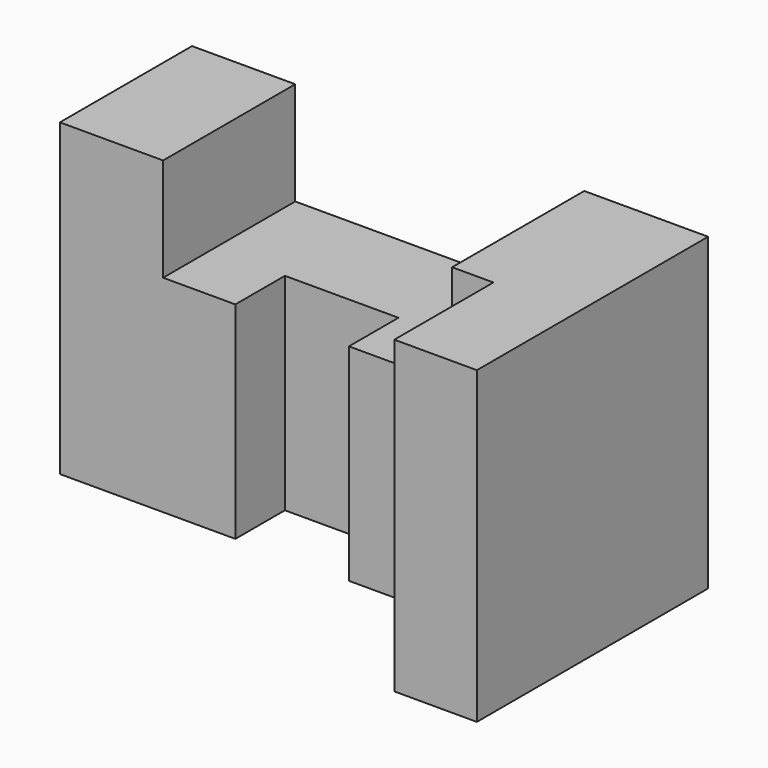
from build123d import *

# Parameters (mm, degrees)
F0_W     = 125
F0_H     = 75
F1_DEPTH = 35
F2_W     = 70
F2_H     = 25
F3_DEPTH = 70.001
F4_W     = 27.5
F4_H     = 15
F5_DEPTH = 75.001


with BuildPart() as f1:
    # F0 (on Front) → F1 (new body, symmetric)
    with BuildSketch(Plane.XZ):
        with Locations((62.5, 37.5)):
            Rectangle(F0_W, F0_H)
    extrude(amount=F1_DEPTH, both=True)

    # F2 (on face) → F3 (cut, through all)
    with BuildSketch(Plane.XZ.offset(35)):
        with Locations((60, 62.5)):
            Rectangle(F2_W, F2_H)
    extrude(amount=-F3_DEPTH, mode=Mode.SUBTRACT)

    # F4 (on face) → F5 (cut, through all)
    with BuildSketch(Plane.XY.offset(75)):
        Polygon((0, -5), (0, -35), (105, -35), (105, -5), (70, -5), (42.5, -5), align=None)
        with Locations((56.25, 2.5)):
            Rectangle(F4_W, F4_H)
        Polygon((0, -5), (0, -35), (105, -35), (105, -5), (70, -5), (42.5, -5), align=None)
    extrude(amount=-F5_DEPTH, mode=Mode.SUBTRACT)


solid = f1.part
